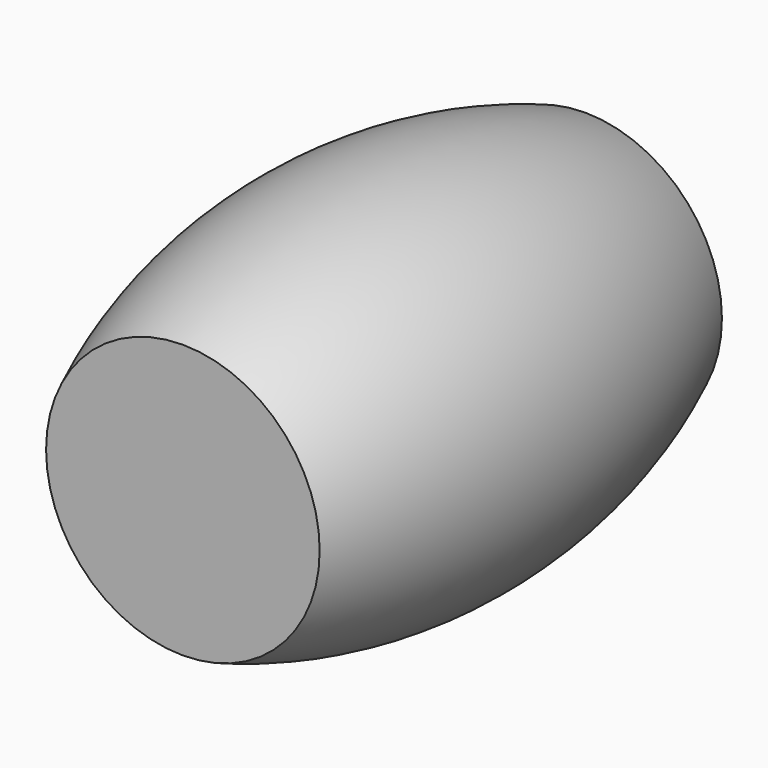
from build123d import *


with BuildPart() as f1:
    # F0 (on Right) → F1 (revolve)
    with BuildSketch(Plane.YZ):
        with BuildLine():
            Line((8, 14.25), (8, 18.602755))
            ThreePointArc((8, 18.602755), (0, 20.25), (-8, 18.602755))
            Line((-8, 18.602755), (-8, 14.25))
            Line((-8, 14.25), (8, 14.25))
        make_face()
    revolve(axis=Axis((0, 0, 14.25), (0, 1, 0)))


solid = f1.part
